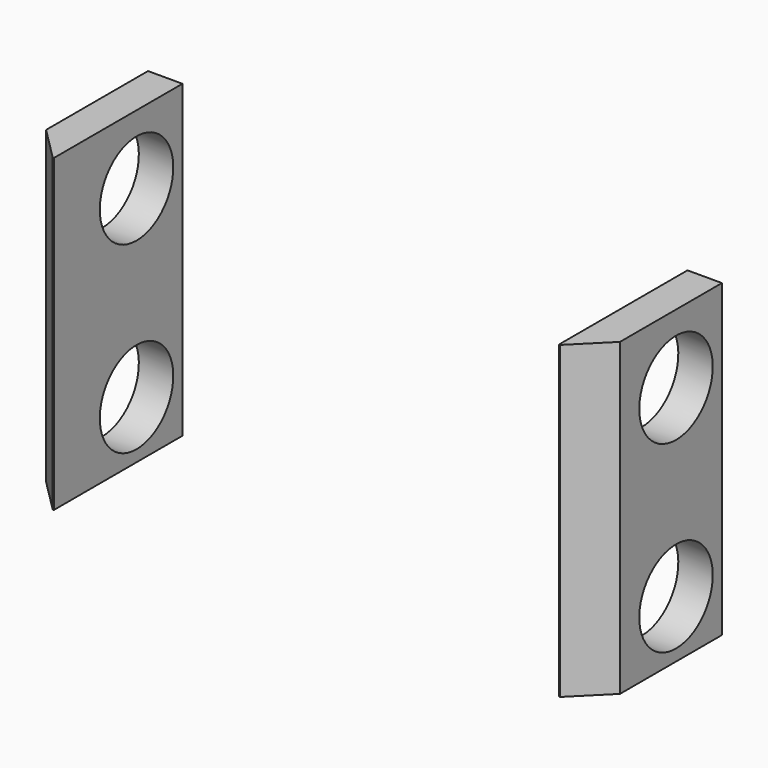
from build123d import *

# Parameters (mm, degrees)
CYLINDER1823_R     = 4
CYLINDER1823_DEPTH = 16
CYLINDER1820_R     = 4
CYLINDER1820_DEPTH = 16
CYLINDER1822_R     = 4
CYLINDER1822_DEPTH = 16
CYLINDER1821_R     = 4
CYLINDER1821_DEPTH = 16
BOX719_W           = 44
BOX719_H           = 27
BOX719_DEPTH       = 28
BOX720_W           = 50
BOX720_H           = 14
BOX720_DEPTH       = 27
CHAMFER071_SIZE    = 2.9
CHAMFER072_SIZE    = 2.9


with BuildPart() as obj1:
    # Cylinder1823 → Cylinder1823 (new body)
    with BuildSketch(Plane(origin=(18, 42, 17), x_dir=(0, 0, -1), z_dir=(1, 0, 0))):
        Circle(CYLINDER1823_R)
    extrude(amount=CYLINDER1823_DEPTH)


with BuildPart() as obj2:
    # Cylinder1820 → Cylinder1820 (new body)
    with BuildSketch(Plane(origin=(18, 42, 1), x_dir=(0, 0, -1), z_dir=(1, 0, 0))):
        Circle(CYLINDER1820_R)
    extrude(amount=CYLINDER1820_DEPTH)


with BuildPart() as obj3:
    # Cylinder1822 → Cylinder1822 (new body)
    with BuildSketch(Plane(origin=(-34, 42, 17), x_dir=(0, 0, -1), z_dir=(1, 0, 0))):
        Circle(CYLINDER1822_R)
    extrude(amount=CYLINDER1822_DEPTH)


with BuildPart() as compound899:
    # Cylinder1821 → Cylinder1821 (new body)
    with BuildSketch(Plane(origin=(-34, 42, 1), x_dir=(0, 0, -1), z_dir=(1, 0, 0))):
        Circle(CYLINDER1821_R)
    extrude(amount=CYLINDER1821_DEPTH)

    # Compound899: union obj1, obj2, obj3
    add(obj1.part)
    add(obj2.part)
    add(obj3.part)


with BuildPart() as krychle719:
    # Box719 → Box719 (new body)
    with BuildSketch(Plane(origin=(-22, 20, -4), x_dir=(1, 0, 0), z_dir=(0, 0, 1))):
        with Locations((22, 13.5)):
            Rectangle(BOX719_W, BOX719_H)
    extrude(amount=BOX719_DEPTH)


with BuildPart() as chamfer072:
    # Box720 → Box720 (new body)
    with BuildSketch(Plane(origin=(-25, 33, -4), x_dir=(1, 0, 0), z_dir=(0, 0, 1))):
        with Locations((25, 7)):
            Rectangle(BOX720_W, BOX720_H)
    extrude(amount=BOX720_DEPTH)

    # Cut533: cut Krychle719
    add(krychle719.part, mode=Mode.SUBTRACT)

    # Cut534: cut Compound899
    add(compound899.part, mode=Mode.SUBTRACT)

    # Chamfer071
    chamfer071_edges = [chamfer072.edges().sort_by_distance(p)[0] for p in [
        (25, 33, 9.5),
    ]]
    chamfer(chamfer071_edges, length=CHAMFER071_SIZE)

    # Chamfer072
    chamfer072_edges = [chamfer072.edges().sort_by_distance(p)[0] for p in [
        (-25, 33, 9.5),
    ]]
    chamfer(chamfer072_edges, length=CHAMFER072_SIZE)


solid = chamfer072.part
